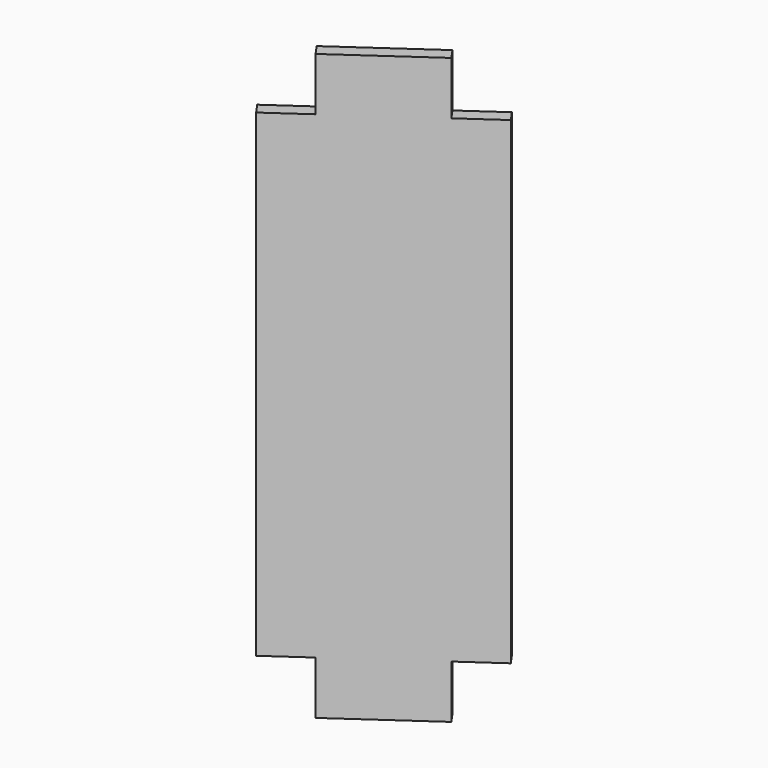
from build123d import *

# Parameters (mm, degrees)
PAD008_DEPTH               = 22
POCKET008_DEPTH            = 4
BODY004021_PLACEMENT_ANGLE = 90


with BuildPart() as part:
    # Sketch014 → Pad008 (new body)
    with BuildSketch(Plane.XY):
        Polygon((9.2084513411, 14.8813448283), (10.0276033854, 15.4549212646), (18.6312499306, 3.1676406003), (17.8120978864, 2.594064164), align=None)
    pad008 = extrude(amount=-PAD008_DEPTH)

    # Mirrored: Pad008 across face of Pad008
    add(pad008.mirror(Plane(origin=(13.9198506359, 9.0244927143, -22), x_dir=(1, 0, 0), z_dir=(0, 0, -1))))

    # Sketch027 → Pocket008 (cut)
    with BuildSketch(Plane.XY):
        Polygon((9.2084513411, 14.8813448283), (10.0276033854, 15.4549212646), (12.0351209126, 12.5878891096), (11.2159688683, 12.0143126733), align=None)
        Polygon((18.6312499306, 3.1676406003), (17.8120978864, 2.594064164), (15.8045803591, 5.461096319), (16.6237324034, 6.0346727553), align=None)
    pocket008 = extrude(amount=-POCKET008_DEPTH, mode=Mode.SUBTRACT)

    # Mirrored001: Pocket008 across face of Pad008
    add(pocket008.mirror(Plane(origin=(13.9198506359, 9.0244927143, -22), x_dir=(1, 0, 0), z_dir=(0, 0, -1))), mode=Mode.SUBTRACT)


with BuildPart() as part_1:
    # Body004021 placement: moved
    add(part.part.rotate(Axis((0, 0, 0), (0, 0, -1)), BODY004021_PLACEMENT_ANGLE))


solid = part_1.part
